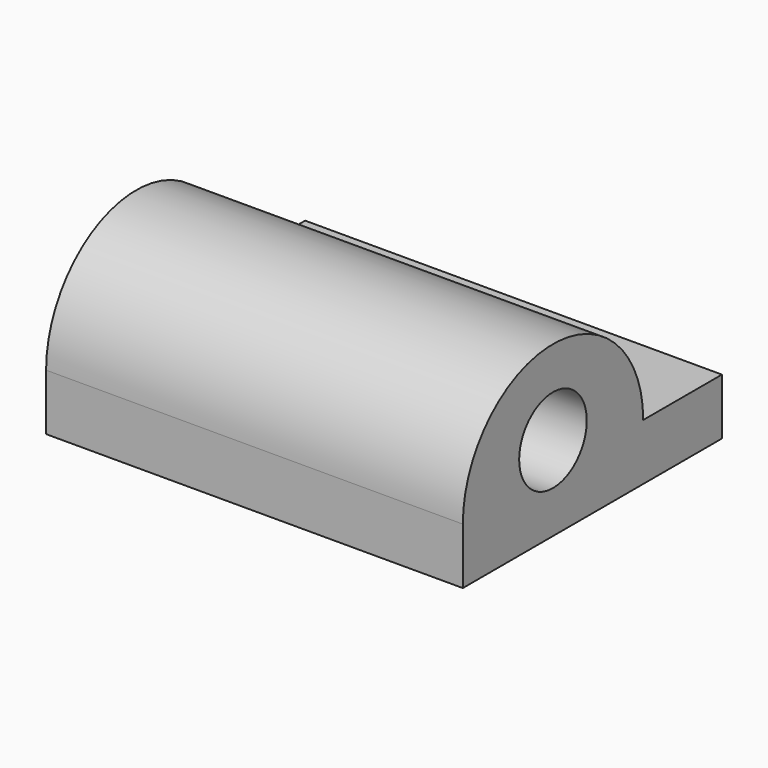
from build123d import *

# Parameters (mm, degrees)
F0_W     = 29.6
F0_H     = 5
F0_H_2   = 10
F1_DEPTH = 4
F3_DEPTH = 29.6
F4_R     = 3
F5_DEPTH = 33
F6_W     = 29.6
F6_H     = 4
F7_DEPTH = 3
F8_R     = 2
F9_DEPTH = 25


with BuildPart() as f1:
    # F0 (on Top) → F1 (new body)
    with BuildSketch(Plane.XY):
        with Locations((0, 7.5)):
            Rectangle(F0_W, F0_H)
        Rectangle(F0_W, F0_H_2)
        with Locations((0, -7.5)):
            Rectangle(F0_W, F0_H)
        Rectangle(F0_W, F0_H_2)
        Rectangle(F0_W, F0_H_2)
    extrude(amount=F1_DEPTH)

    # F2 (on face) → F3 (join)
    with BuildSketch(Plane(origin=(-14.8, 0, 0), x_dir=(0, -1, 0), z_dir=(-1, 0, 0))):
        with BuildLine():
            Line((-6.011283, 4), (10, 4))
            ThreePointArc((10, 4), (1.994358, 12.005642), (-6.011283, 4))
        make_face()
    extrude(amount=-F3_DEPTH)

    # F4 (on face) → F5 (cut)
    with BuildSketch(Plane(origin=(-14.8, 0, 0), x_dir=(0, -1, 0), z_dir=(-1, 0, 0))):
        with Locations((2, 6)):
            Circle(F4_R)
    extrude(amount=-F5_DEPTH, mode=Mode.SUBTRACT)

    # F6 (on face) → F7 (join)
    with BuildSketch(Plane(origin=(0, 10, 0), x_dir=(-1, 0, 0), z_dir=(0, 1, 0))):
        with Locations((0, 2)):
            Rectangle(F6_W, F6_H)
    extrude(amount=F7_DEPTH)

    # F8 (on face) → F9 (cut)
    with BuildSketch(Plane.XY.offset(4)):
        with Locations((0, 9.511283)):
            Circle(F8_R)
    extrude(amount=-F9_DEPTH, mode=Mode.SUBTRACT)


solid = f1.part
